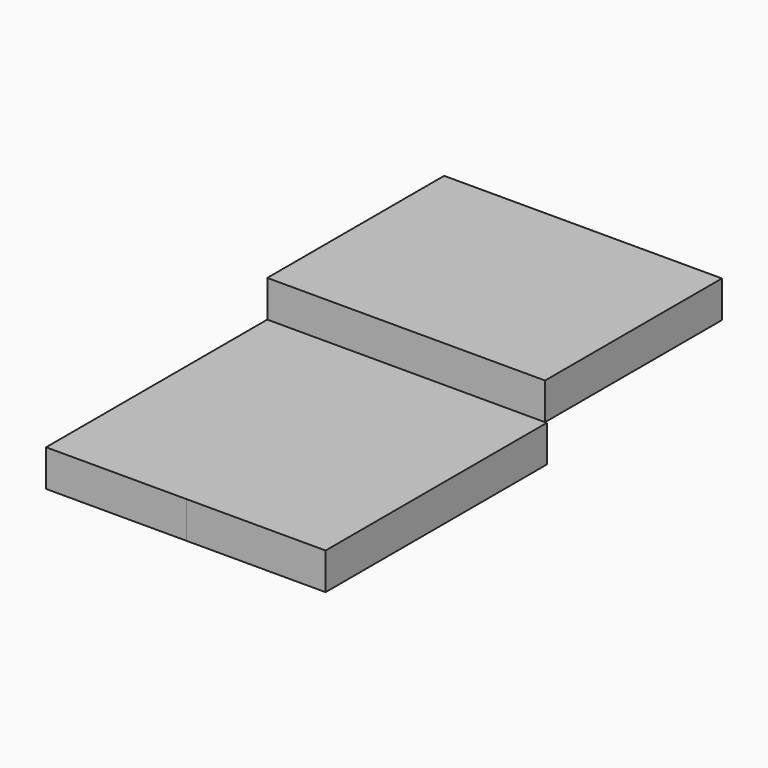
from build123d import *

# Parameters (mm, degrees)
F0_W     = 41.454334
F0_H     = 97.923957
F0_H_2   = 93.402587
F0_W_2   = 55.751312
F1_DEPTH = 25.4
F2_W     = 192.231126
F2_H     = 152.983293
F3_DEPTH = 25.4


with BuildPart() as f1:
    # F0 (on Top) → F1 (new body)
    with BuildSketch(Plane.XY):
        Polygon((48.106268, 0), (0, 0), (0, -97.923957), (0, -191.326544), (96.212536, -191.326544), (96.212536, 0), align=None)
        with Locations((-20.727167, -48.961979)):
            Rectangle(F0_W, F0_H)
        with Locations((-20.727167, -144.62525)):
            Rectangle(F0_W, F0_H_2)
        with Locations((-69.32999, -48.961979)):
            Rectangle(F0_W_2, F0_H)
        with Locations((-69.32999, -144.62525)):
            Rectangle(F0_W_2, F0_H_2)
    extrude(amount=F1_DEPTH)


with BuildPart() as f3:
    # F2 (on face) → F3 (new body)
    with BuildSketch(Plane.XY.offset(25.4)):
        with Locations((-1.090083, 76.491647)):
            Rectangle(F2_W, F2_H)
    extrude(amount=F3_DEPTH)


solid = Compound([f1.part, f3.part])
